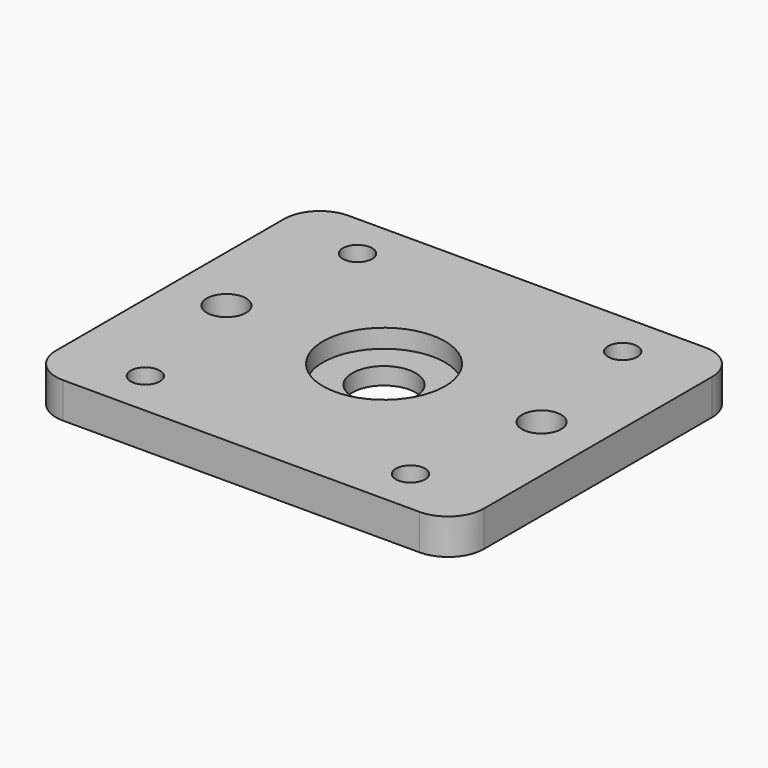
from build123d import *

# Parameters (mm, degrees)
F1_W           = 76.2
F1_H           = 63.5
F2_DEPTH       = 6.35
F4_D           = 11.303
F4_CBORE_D     = 21.717
F4_CBORE_DEPTH = 3.302
F6_D           = 6.985
F7_D           = 6.985
F8_D           = 5.207
F9_D           = 5.207
F10_D          = 5.207
F11_R          = 6.35


with BuildPart() as f2:
    # F1 (on Top) → F2 (new body)
    with BuildSketch(Plane.XY):
        Rectangle(F1_W, F1_H)
    extrude(amount=F2_DEPTH)

    # F4 (through all)
    with Locations(Plane.XY.offset(6.35)):
        with Locations((0, 0)):
            CounterBoreHole(F4_D / 2, F4_CBORE_D / 2, F4_CBORE_DEPTH)

    # F6 (through all)
    with Locations(Plane.XY.offset(6.35)):
        with Locations((-28.067, 0)):
            Hole(F6_D / 2)

    # F7 (through all)
    with Locations(Plane.XY.offset(6.35)):
        with Locations((28.067, 0)):
            Hole(F7_D / 2)

    # F8 (through all)
    with Locations(Plane(origin=(0, 0, 0), x_dir=(1, 0, 0), z_dir=(0, 0, -1))):
        with Locations((-23.622, 23.622)):
            Hole(F8_D / 2)

    # F9 (through all)
    with Locations(Plane(origin=(0, 0, 0), x_dir=(1, 0, 0), z_dir=(0, 0, -1))):
        with Locations((23.622, 23.622), (-23.622, -23.622)):
            Hole(F9_D / 2)

    # F10 (through all)
    with Locations(Plane(origin=(0, 0, 0), x_dir=(1, 0, 0), z_dir=(0, 0, -1))):
        with Locations((23.622, -23.622)):
            Hole(F10_D / 2)

    # F11
    f11_edges = [f2.edges().sort_by_distance(p)[0] for p in [
        (-38.1, -31.75, 3.175),
        (38.1, -31.75, 3.175),
        (38.1, 31.75, 3.175),
        (-38.1, 31.75, 3.175),
    ]]
    fillet(f11_edges, radius=F11_R)


solid = f2.part
